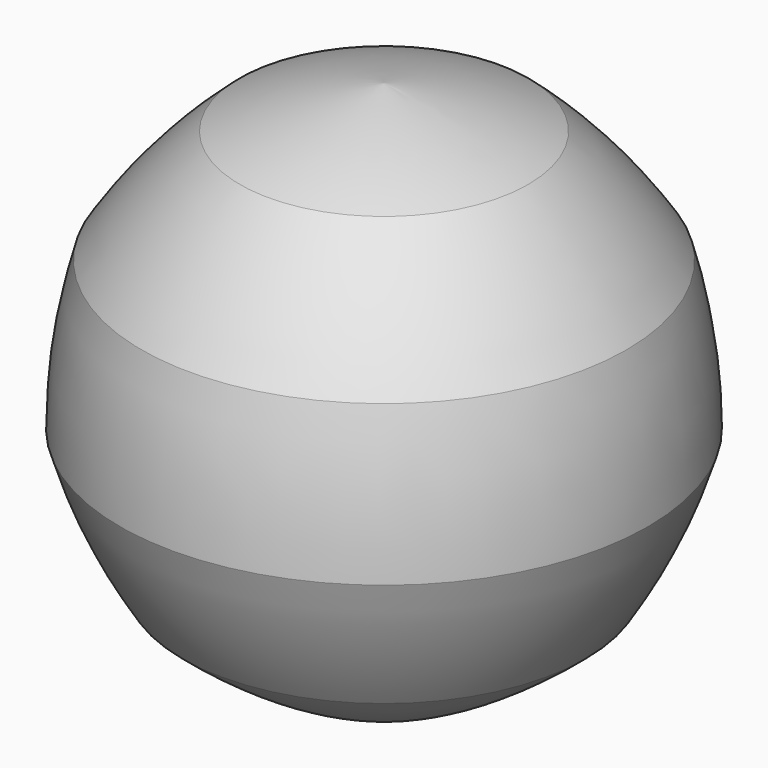
from build123d import *


with BuildPart() as f1:
    # F0 (on Front) → F1 (revolve)
    with BuildSketch(Plane.XZ):
        with BuildLine():
            ThreePointArc((12.425386, -42.316977), (23.358742, -36.346912), (33.331184, -28.881636))
            ThreePointArc((33.331184, -28.881636), (39.301249, -17.948279), (43.654568, -6.276579))
            ThreePointArc((43.654568, -6.276579), (42.765887, 6.148806), (40.117934, 18.321247))
            ThreePointArc((40.117934, 18.321247), (32.652658, 28.293689), (23.84414, 37.102206))
            ThreePointArc((23.84414, 37.102206), (12.172441, 41.455525), (0, 44.103478))
            Line((0, 44.103478), (0, -43.205658))
            ThreePointArc((0, -43.205658), (6.228562, -42.983204), (12.425386, -42.316977))
        make_face()
    revolve(axis=Axis((0, 0, 0.44891), (0, 0, -1)))


solid = f1.part
